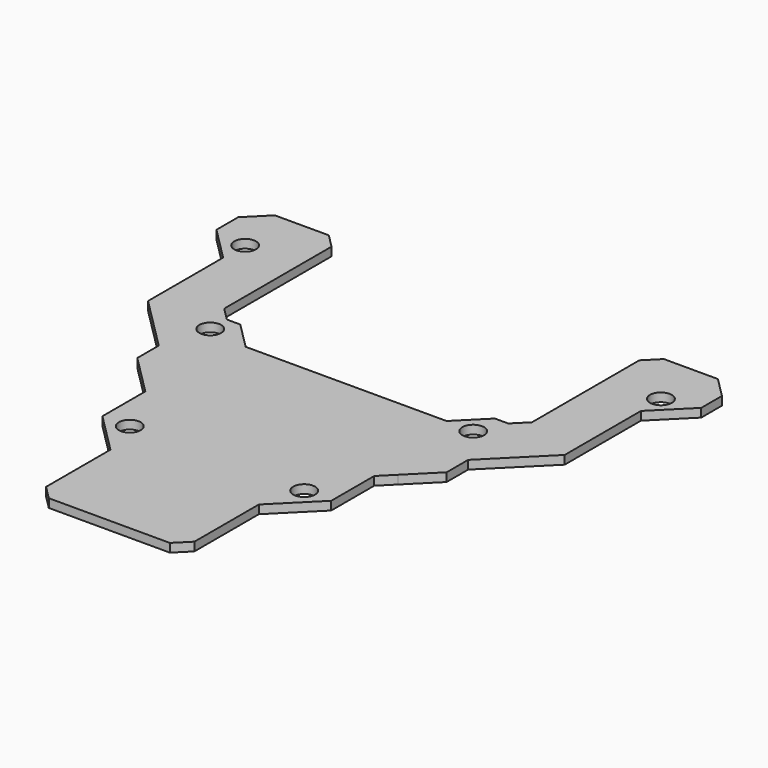
from build123d import *

# Parameters (mm, degrees)
F0_R     = 2.03
F1_DEPTH = 1.6


with BuildPart() as f1:
    # F0 (on Top) → F1 (new body)
    with BuildSketch(Plane.XY):
        Polygon((-31.238556, 32.908768), (-31.241556, 32.909368), (-41.241556, 32.909368), (-41.244556, 32.908768), (-41.248556, 32.909068), (-41.257556, 32.906568), (-41.267556, 32.904868), (-41.270556, 32.903168), (-41.273556, 32.902368), (-41.281556, 32.896768), (-41.289556, 32.891868), (-41.291556, 32.889268), (-41.294556, 32.887368), (-45.044556, 29.137368), (-45.046456, 29.134668), (-45.049056, 29.132568), (-45.053956, 29.124068), (-45.059556, 29.116068), (-45.060356, 29.112868), (-45.062056, 29.110068), (-45.063756, 29.100368), (-45.066256, 29.090868), (-45.065956, 29.087668), (-45.066556, 29.084368), (-45.066556, 24.084368), (-45.065956, 24.081068), (-45.066256, 24.077868), (-45.063756, 24.068368), (-45.062056, 24.058668), (-45.060356, 24.055868), (-45.059556, 24.052668), (-45.053956, 24.044668), (-45.049056, 24.036168), (-45.046456, 24.034068), (-45.044556, 24.031368), (-38.816556, 17.803268), (-38.816556, 0.334368), (-38.815556, 0.331068), (-38.816556, 0.327868), (-38.813556, 0.318368), (-38.811556, 0.308668), (-38.810556, 0.305868), (-38.809556, 0.302668), (-38.803556, 0.294668), (-38.798556, 0.286168), (-38.796556, 0.284068), (-38.794556, 0.281368), (-28.816556, -9.696732), (-28.816556, -14.665632), (-28.815556, -14.668932), (-28.816556, -14.672132), (-28.813556, -14.681632), (-28.811556, -14.691332), (-28.810556, -14.694132), (-28.809556, -14.697332), (-28.803556, -14.705332), (-28.798556, -14.713832), (-28.796556, -14.715932), (-28.794556, -14.718632), (-23.794556, -19.718632), (-21.316556, -22.196732), (-21.316556, -32.165632), (-21.315556, -32.168632), (-21.316556, -32.172632), (-21.313556, -32.181632), (-21.311556, -32.191632), (-21.309556, -32.197632), (-21.303556, -32.205632), (-21.298556, -32.213632), (-21.296556, -32.215632), (-21.294556, -32.218632), (-13.816556, -39.696632), (-13.816556, -54.665632), (-13.815556, -54.668632), (-13.816556, -54.672632), (-13.813556, -54.681632), (-13.811556, -54.691632), (-13.809556, -54.697632), (-13.803556, -54.705632), (-13.798556, -54.713632), (-13.796556, -54.715632), (-13.794556, -54.718632), (-11.294556, -57.218632), (-11.291556, -57.220632), (-11.289556, -57.222632), (-11.281556, -57.227632), (-11.273556, -57.233632), (-11.267556, -57.235632), (-11.257556, -57.237632), (-11.248556, -57.240632), (-11.244556, -57.239632), (-11.241556, -57.240632), (11.258444, -57.240632), (11.261444, -57.239632), (11.265444, -57.240632), (11.274444, -57.237632), (11.284444, -57.235632), (11.290444, -57.233632), (11.298444, -57.227632), (11.306444, -57.222632), (11.308444, -57.220632), (11.311444, -57.218632), (13.811444, -54.718632), (13.813444, -54.715632), (13.815444, -54.713632), (13.820444, -54.705632), (13.826444, -54.697632), (13.828444, -54.691632), (13.830444, -54.681632), (13.833444, -54.672632), (13.832444, -54.668632), (13.833444, -54.665632), (13.833444, -39.696632), (21.311444, -32.218632), (21.313444, -32.215632), (21.315444, -32.213632), (21.320444, -32.205632), (21.326444, -32.197632), (21.328444, -32.191632), (21.330444, -32.181632), (21.333444, -32.172632), (21.332444, -32.168632), (21.333444, -32.165632), (21.333444, -22.196732), (23.811444, -19.718632), (28.811444, -14.718632), (28.813444, -14.715932), (28.815444, -14.713832), (28.820444, -14.705332), (28.826444, -14.697332), (28.827444, -14.694132), (28.828444, -14.691332), (28.830444, -14.681632), (28.833444, -14.672132), (28.832444, -14.668932), (28.833444, -14.665632), (28.833444, -9.696732), (38.811444, 0.281368), (38.813444, 0.284068), (38.815444, 0.286168), (38.820444, 0.294668), (38.826444, 0.302668), (38.827444, 0.305868), (38.828444, 0.308668), (38.830444, 0.318368), (38.833444, 0.327868), (38.832444, 0.331168), (38.833444, 0.334368), (38.833444, 18.053268), (45.061444, 24.281368), (45.063444, 24.284068), (45.065444, 24.286168), (45.070444, 24.294668), (45.076444, 24.302668), (45.077444, 24.305868), (45.078444, 24.308668), (45.080444, 24.318368), (45.083444, 24.327868), (45.082444, 24.331068), (45.083444, 24.334368), (45.083444, 29.084368), (45.082444, 29.087668), (45.083444, 29.090868), (45.080444, 29.100368), (45.078444, 29.110068), (45.077444, 29.112868), (45.076444, 29.116068), (45.070444, 29.124068), (45.065444, 29.132568), (45.063444, 29.134668), (45.061444, 29.137368), (41.311444, 32.887368), (41.308444, 32.889268), (41.306444, 32.891868), (41.298444, 32.896768), (41.290444, 32.902368), (41.287444, 32.903168), (41.284444, 32.904868), (41.274444, 32.906568), (41.265444, 32.909068), (41.261444, 32.908768), (41.258444, 32.909368), (31.258444, 32.909368), (31.255444, 32.908768), (31.251444, 32.909068), (31.242444, 32.906568), (31.232444, 32.904868), (31.229444, 32.903168), (31.226444, 32.902368), (31.218444, 32.896768), (31.210444, 32.891868), (31.208444, 32.889268), (31.205444, 32.887368), (28.705444, 30.387368), (28.703444, 30.384668), (28.701444, 30.382568), (28.696444, 30.374068), (28.690444, 30.366068), (28.689444, 30.362868), (28.688444, 30.360068), (28.686444, 30.350368), (28.683444, 30.340868), (28.684444, 30.337668), (28.683444, 30.334368), (28.683444, 5.365468), (26.227444, 2.909368), (23.758444, 2.909368), (23.755444, 2.908768), (23.751444, 2.909068), (23.742444, 2.906568), (23.732444, 2.904868), (23.729444, 2.903168), (23.726444, 2.902368), (23.718444, 2.896768), (23.710444, 2.891868), (23.708444, 2.889268), (23.705444, 2.887368), (18.727444, -2.090632), (-18.710556, -2.090632), (-23.688556, 2.887368), (-23.691556, 2.889268), (-23.693556, 2.891868), (-23.701556, 2.896768), (-23.709556, 2.902368), (-23.712556, 2.903168), (-23.715556, 2.904868), (-23.725556, 2.906568), (-23.734556, 2.909068), (-23.738556, 2.908768), (-23.741556, 2.909368), (-26.210556, 2.909368), (-28.666556, 5.365468), (-28.666556, 30.334368), (-28.667556, 30.337668), (-28.666556, 30.340868), (-28.669556, 30.350368), (-28.671556, 30.360068), (-28.672556, 30.362868), (-28.673556, 30.366068), (-28.679556, 30.374068), (-28.684556, 30.382568), (-28.686556, 30.384668), (-28.688556, 30.387368), (-31.188556, 32.887368), (-31.191556, 32.889268), (-31.193556, 32.891868), (-31.201556, 32.896768), (-31.209556, 32.902368), (-31.212556, 32.903168), (-31.215556, 32.904868), (-31.225556, 32.906568), (-31.234556, 32.909068), align=None)
        with Locations((-16.241556, -32.165632)):
            Circle(F0_R, mode=Mode.SUBTRACT)
        with Locations((16.258444, -32.165632)):
            Circle(F0_R, mode=Mode.SUBTRACT)
        with Locations((-26.241556, -0.915632)):
            Circle(F0_R, mode=Mode.SUBTRACT)
        with Locations((-38.741556, 22.834368)):
            Circle(F0_R, mode=Mode.SUBTRACT)
        with Locations((23.758444, -2.165632)):
            Circle(F0_R, mode=Mode.SUBTRACT)
        with Locations((38.728444, 22.844368)):
            Circle(F0_R, mode=Mode.SUBTRACT)
    extrude(amount=F1_DEPTH)


solid = f1.part
